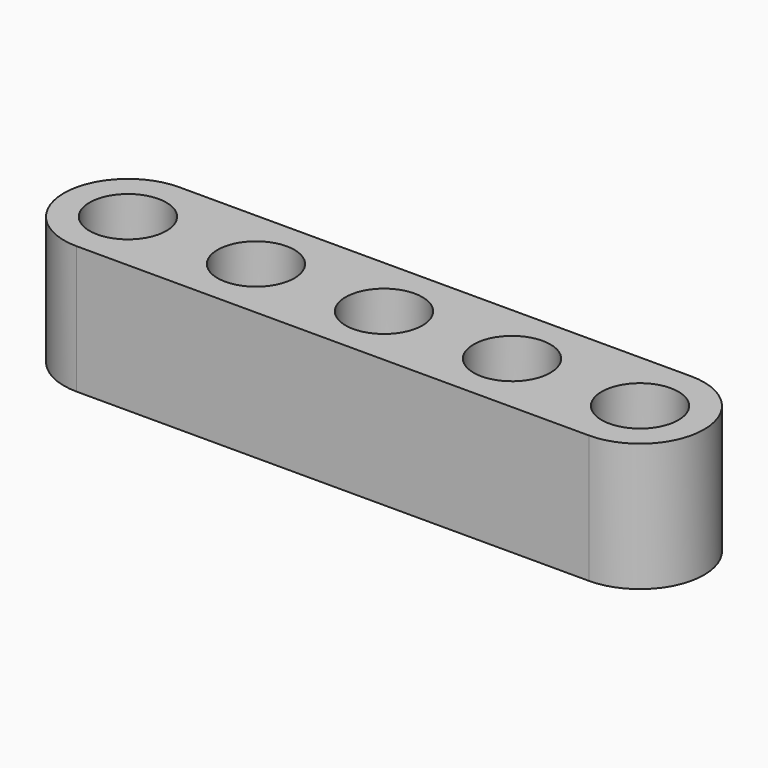
from build123d import *

# Parameters (mm, degrees)
SKETCH_R     = 2.4
PAD_DEPTH    = 8
SKETCH001_R  = 3.2
POCKET_DEPTH = 0.8


with BuildPart() as part:
    # Sketch → Pad (new body)
    with BuildSketch(Plane.XY):
        with BuildLine():
            ThreePointArc((-16, 4), (-20, 0), (-16, -4))
            Line((-16, -4), (16, -4))
            ThreePointArc((16, -4), (20, 0), (16, 4))
            Line((16, 4), (-16, 4))
        make_face()
        with Locations((-16, 0)):
            Circle(SKETCH_R, mode=Mode.SUBTRACT)
        with Locations((16, 0)):
            Circle(SKETCH_R, mode=Mode.SUBTRACT)
        with Locations((8, 0)):
            Circle(SKETCH_R, mode=Mode.SUBTRACT)
        with Locations((-8, 0)):
            Circle(SKETCH_R, mode=Mode.SUBTRACT)
        Circle(SKETCH_R, mode=Mode.SUBTRACT)
    extrude(amount=PAD_DEPTH)

    # Sketch001 → Pocket (cut)
    with BuildSketch(Plane.XY):
        Circle(SKETCH001_R)
        with Locations((-16, 0)):
            Circle(SKETCH001_R)
        with Locations((-8, 0)):
            Circle(SKETCH001_R)
        with Locations((8, 0)):
            Circle(SKETCH001_R)
        with Locations((16, 0)):
            Circle(SKETCH001_R)
    extrude(amount=POCKET_DEPTH, mode=Mode.SUBTRACT)


solid = part.part
